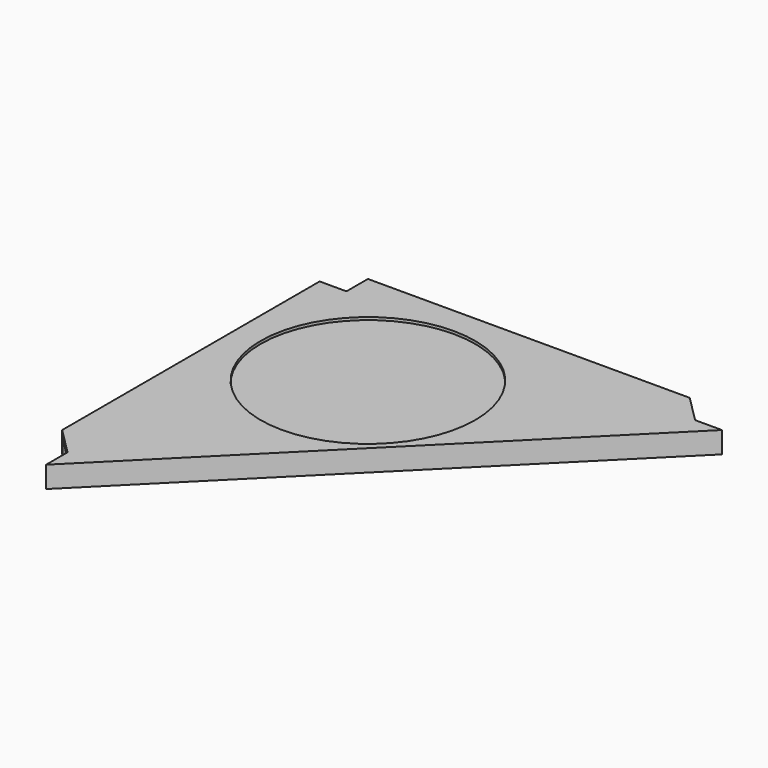
from build123d import *

# Parameters (mm, degrees)
F1_DEPTH  = 10
F2_R      = 5
F3_R      = 200
F4_DEPTH  = 5
F5_W      = 5
F5_H      = 690
F5_W_2    = 690
F5_H_2    = 5
F6_DEPTH  = 30
F7_W      = 50
F7_H      = 50
F8_DEPTH  = 40.001
F10_DEPTH = 40.001


with BuildPart() as f1:
    # F0 (on Top) → F1 (new body)
    with BuildSketch(Plane.XY):
        Polygon((750, 0), (0, 0), (0, -750), (50, -750), (750, -50), align=None)
    extrude(amount=F1_DEPTH)

    # F2
    f2_edges = [f1.edges().sort_by_distance(p)[0] for p in [
        (0, -750, 5),
        (750, 0, 5),
        (0, 0, 5),
    ]]
    fillet(f2_edges, radius=F2_R)

    # F3 (on face) → F4 (cut)
    with BuildSketch(Plane.XY.offset(10)):
        with Locations((250, -250)):
            Circle(F3_R)
    extrude(amount=-F4_DEPTH, mode=Mode.SUBTRACT)

    # F5 (on face) → F6 (join)
    with BuildSketch(Plane(origin=(0, 0, 0), x_dir=(1, 0, 0), z_dir=(0, 0, -1))):
        with Locations((2.5, 375)):
            Rectangle(F5_W, F5_H)
        with Locations((375, 2.5)):
            Rectangle(F5_W_2, F5_H_2)
        Polygon((750, 50), (50, 750), (46.4644660941, 746.4644660941), (746.4644660941, 46.4644660941), align=None)
    extrude(amount=F6_DEPTH)

    # F7 (on face) → F8 (cut, through all)
    with BuildSketch(Plane.XY.offset(10)):
        with Locations((25, -25)):
            Rectangle(F7_W, F7_H)
        with Locations((725, -25)):
            Rectangle(F7_W, F7_H)
        with Locations((25, -725)):
            Rectangle(F7_W, F7_H)
    extrude(amount=-F8_DEPTH, mode=Mode.SUBTRACT)

    # F9 (on face) → F10 (cut, through all)
    with BuildSketch(Plane.XY.offset(10)):
        Polygon((650, 0), (700, -50), (700, 0), align=None)
        Polygon((0, -650), (0, -700), (50, -700), align=None)
    extrude(amount=-F10_DEPTH, mode=Mode.SUBTRACT)


solid = f1.part
